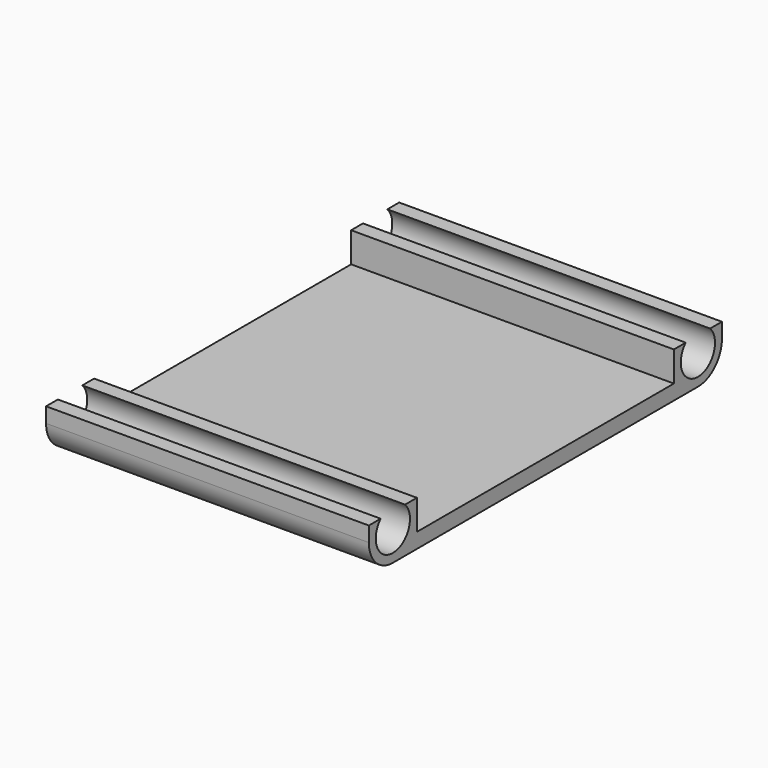
from build123d import *

# Parameters (mm, degrees)
F0_W     = 21.5
F0_H     = 21.4
F1_DEPTH = 1
F0_H_2   = 4
F2_DEPTH = 3
F4_D     = 2.85
F5_R     = 2


with BuildPart() as f1:
    # F0 (on Top) → F1 (new body)
    with BuildSketch(Plane.XY):
        Rectangle(F0_W, F0_H)
    extrude(amount=F1_DEPTH)

    # F0 (on Top) → F2 (join)
    with BuildSketch(Plane.XY):
        with Locations((0, 12.7)):
            Rectangle(F0_W, F0_H_2)
        with Locations((0, -12.7)):
            Rectangle(F0_W, F0_H_2)
    extrude(amount=F2_DEPTH)

    # F4 (through all)
    with Locations(Plane.YZ.offset(10.75)):
        with Locations((12.7, 2), (-12.7, 2)):
            Hole(F4_D / 2)

    # F5
    f5_edges = [f1.edges().sort_by_distance(p)[0] for p in [
        (0, 14.7, 0),
        (0, -14.7, 0),
    ]]
    fillet(f5_edges, radius=F5_R)


solid = f1.part
